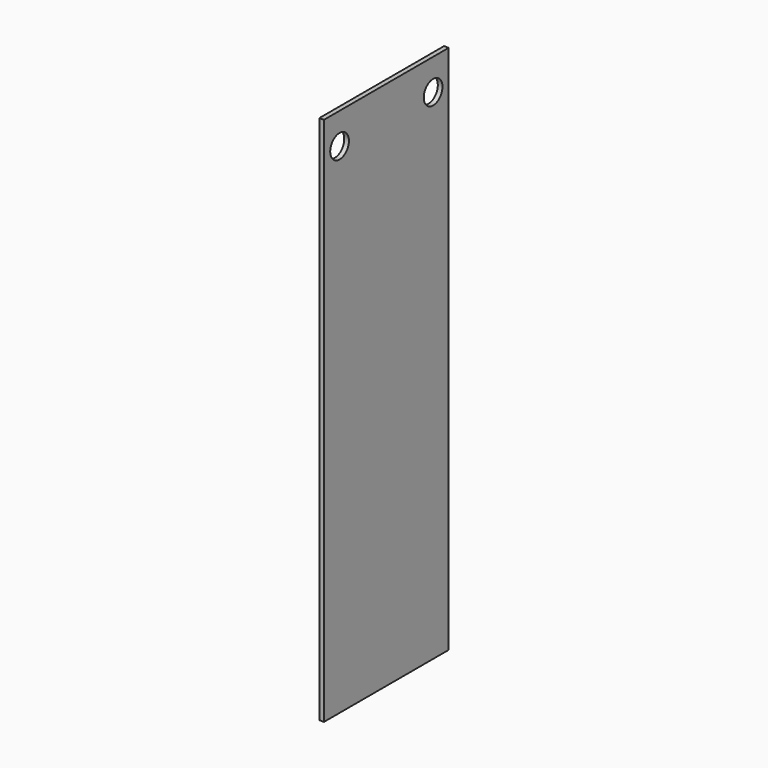
from build123d import *

# Parameters (mm, degrees)
F0_W     = 63.5
F0_H     = 215.9
F1_DEPTH = 1.89738
F2_R     = 4.7625
F3_DEPTH = 25.4


with BuildPart() as f1:
    # F0 (on Right) → F1 (new body)
    with BuildSketch(Plane.YZ):
        Rectangle(F0_W, F0_H)
    extrude(amount=F1_DEPTH)

    # F2 (on face) → F3 (cut)
    with BuildSketch(Plane(origin=(0, 0, 0), x_dir=(0, -1, 0), z_dir=(-1, 0, 0))):
        with Locations((-23.8125, 95.25)):
            Circle(F2_R)
        with Locations((23.8125, 95.25)):
            Circle(F2_R)
    extrude(amount=-F3_DEPTH, mode=Mode.SUBTRACT)


solid = f1.part
